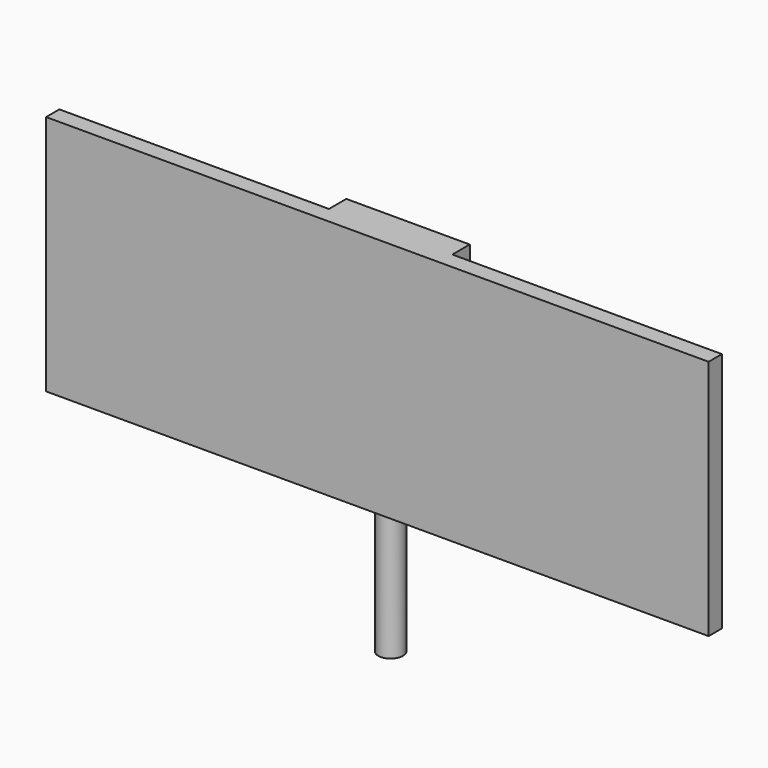
from build123d import *

# Parameters (mm, degrees)
F0_W     = 263.190776
F0_H     = 95.95184
F1_DEPTH = 6.604
F2_W     = 49.028684
F2_H     = 95.95184
F3_DEPTH = 8.636
F4_R     = 4.891878
F5_DEPTH = 50.8


with BuildPart() as f1:
    # F0 (on Front) → F1 (new body)
    with BuildSketch(Plane.XZ):
        Rectangle(F0_W, F0_H)
    extrude(amount=F1_DEPTH)

    # F2 (on face) → F3 (join)
    with BuildSketch(Plane(origin=(0, 0, 0), x_dir=(-1, 0, 0), z_dir=(0, 1, 0))):
        Rectangle(F2_W, F2_H)
    extrude(amount=F3_DEPTH)

    # F4 (on face) → F5 (join)
    with BuildSketch(Plane(origin=(0, 0, -47.97592), x_dir=(1, 0, 0), z_dir=(0, 0, -1))):
        Circle(F4_R)
    extrude(amount=F5_DEPTH)


solid = f1.part
